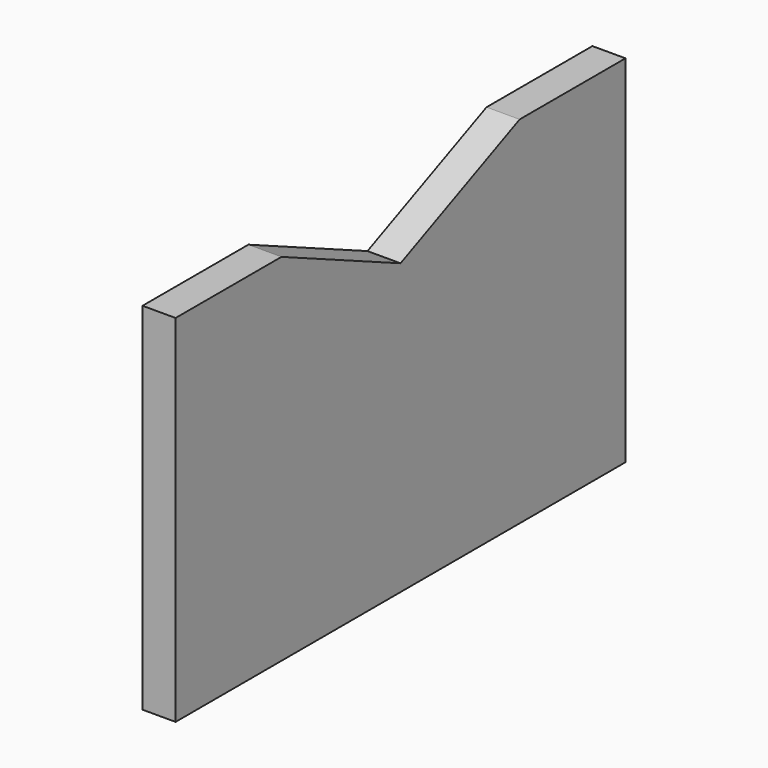
from build123d import *

# Parameters (mm, degrees)
F1_DEPTH = 12.7


with BuildPart() as f1:
    # F0 (on Right) → F1 (new body, symmetric)
    with BuildSketch(Plane.YZ):
        Polygon((-114.3, 136.525), (-215.9, 136.525), (-215.9, -136.525), (215.9, -136.525), (215.9, 136.525), (114.3, 136.525), (0, 85.725), align=None)
    extrude(amount=F1_DEPTH, both=True)


solid = f1.part
